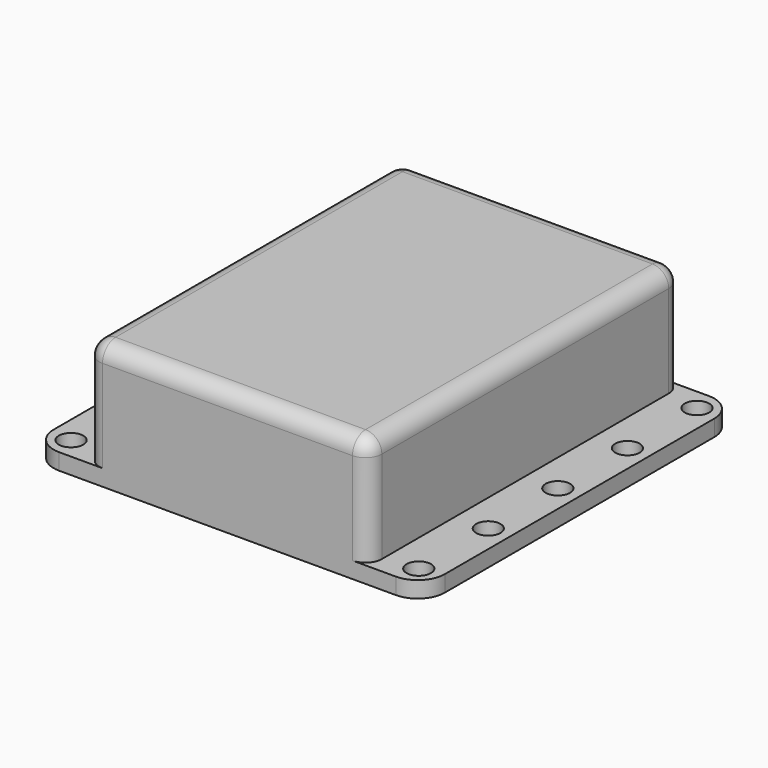
from build123d import *

# Parameters (mm, degrees)
F0_W     = 72
F0_H     = 72
F1_DEPTH = 3
F2_W     = 52
F2_H     = 72
F3_DEPTH = 20
F5_D     = 4.5
F7_D     = 4.5
F8_R     = 5
F9_R     = 3


with BuildPart() as f1:
    # F0 (on Top) → F1 (new body)
    with BuildSketch(Plane.XY):
        Rectangle(F0_W, F0_H)
    extrude(amount=F1_DEPTH)

    # F2 (on face) → F3 (join)
    with BuildSketch(Plane.XY.offset(3)):
        Rectangle(F2_W, F2_H)
    extrude(amount=F3_DEPTH)

    # F5 (through all)
    with Locations(Plane.XY.offset(3)):
        with Locations((32, 32), (32, 16), (32, 0), (32, -16), (32, -32)):
            Hole(F5_D / 2)

    # F7 (through all)
    with Locations(Plane.XY.offset(3)):
        with Locations((-32, 32), (-32, 16), (-32, 0), (-32, -16), (-32, -32)):
            Hole(F7_D / 2)

    # F8
    f8_edges = [f1.edges().sort_by_distance(p)[0] for p in [
        (-36, 36, 1.5),
        (-36, -36, 1.5),
        (36, -36, 1.5),
        (36, 36, 1.5),
    ]]
    fillet(f8_edges, radius=F8_R)

    # F9
    f9_edges = [f1.edges().sort_by_distance(p)[0] for p in [
        (-26, -36, 13),
        (26, -36, 13),
        (0, -36, 23),
        (-26, 0, 23),
        (0, 36, 23),
        (26, 0, 23),
        (26, 36, 13),
        (-26, 36, 13),
    ]]
    fillet(f9_edges, radius=F9_R)


solid = f1.part
